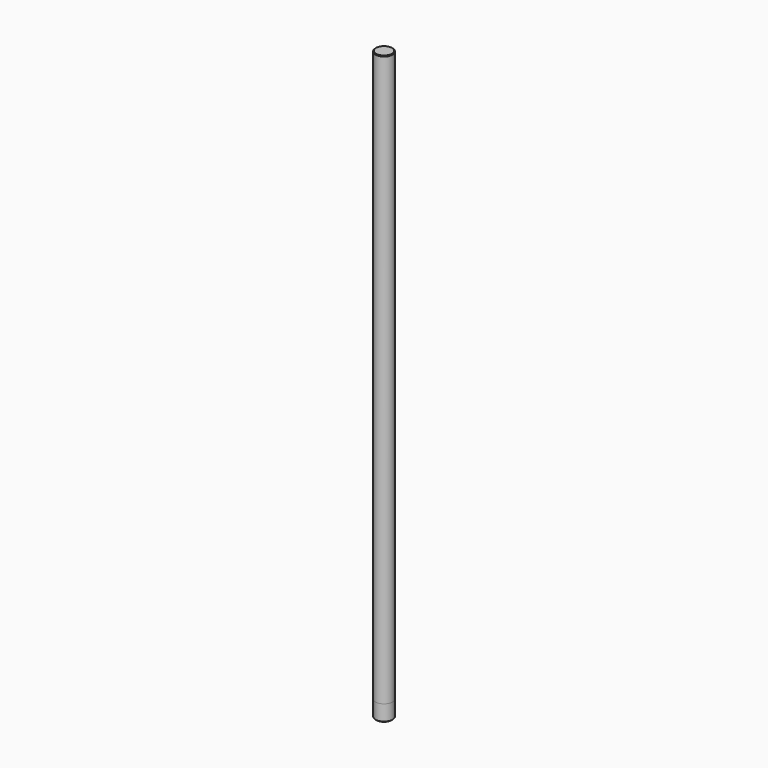
from build123d import *

# Parameters (mm, degrees)
F0_R     = 3.175
F1_DEPTH = 210
F2_R     = 3.125
F3_DEPTH = 6
F4_SIZE  = 0.25
F5_SIZE  = 0.25


with BuildPart() as f1:
    # F0 (on Top) → F1 (new body)
    with BuildSketch(Plane.XY):
        Circle(F0_R)
    extrude(amount=-F1_DEPTH)

    # F2 (on face) → F3 (join)
    with BuildSketch(Plane(origin=(0, 0, -210), x_dir=(1, 0, 0), z_dir=(0, 0, -1))):
        Circle(F2_R)
    extrude(amount=F3_DEPTH)

    # F4
    f4_edges = [f1.edges().sort_by_distance(p)[0] for p in [
        (-3.125, 0, -216),
    ]]
    chamfer(f4_edges, length=F4_SIZE)

    # F5
    f5_edges = [f1.edges().sort_by_distance(p)[0] for p in [
        (-3.175, 0, 0),
    ]]
    chamfer(f5_edges, length=F5_SIZE)


solid = f1.part
